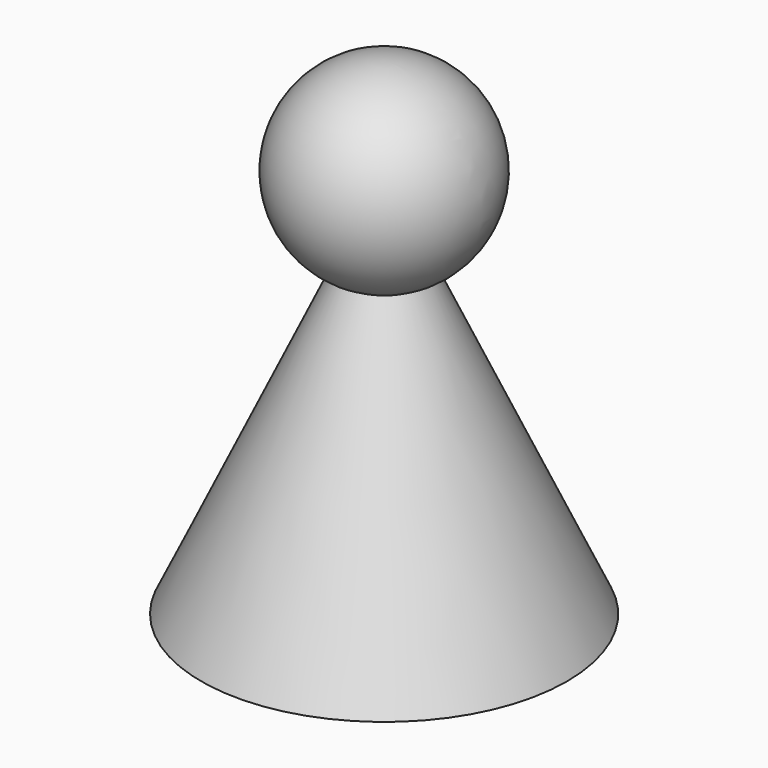
from build123d import *


with BuildPart() as part:
    # Sketch → Revolve (revolve)
    with BuildSketch(Plane.XZ):
        with BuildLine():
            Line((0, 0), (0, 40))
            ThreePointArc((3.445002, 24.779753), (7.802627, 33.766073), (0, 40))
            Line((3.445002, 24.779753), (15, 0))
            Line((0, 0), (15, 0))
        make_face()
    revolve(axis=Axis((0, 0, 0), (0, 0, 1)))


solid = part.part
